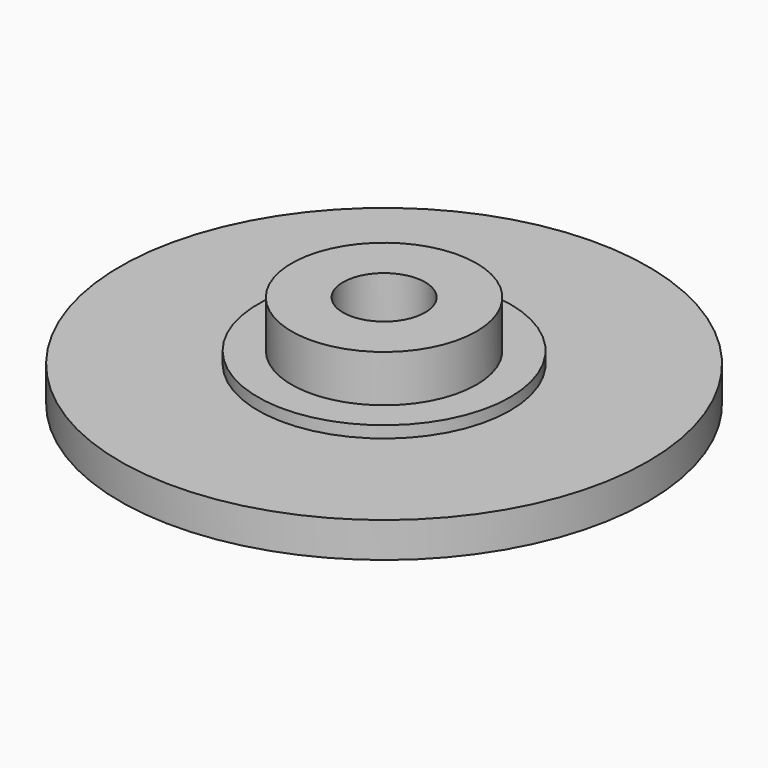
from build123d import *

# Parameters (mm, degrees)
F0_R     = 11.43
F1_DEPTH = 1.524
F2_R     = 4.0005
F3_DEPTH = 2.54
F4_R     = 1.778
F5_DEPTH = 25.4
F6_R     = 5.461
F6_R_2   = 4.0005
F7_DEPTH = 0.508


with BuildPart() as f1:
    # F0 (on Top) → F1 (new body)
    with BuildSketch(Plane.XY):
        Circle(F0_R)
    extrude(amount=F1_DEPTH)

    # F2 (on face) → F3 (join)
    with BuildSketch(Plane.XY.offset(1.524)):
        Circle(F2_R)
    extrude(amount=F3_DEPTH)

    # F4 (on face) → F5 (cut)
    with BuildSketch(Plane.XY.offset(4.064)):
        Circle(F4_R)
    extrude(amount=-F5_DEPTH, mode=Mode.SUBTRACT)

    # F6 (on face) → F7 (join)
    with BuildSketch(Plane.XY.offset(1.524)):
        Circle(F6_R)
        Circle(F6_R_2, mode=Mode.SUBTRACT)
    extrude(amount=F7_DEPTH)


solid = f1.part
